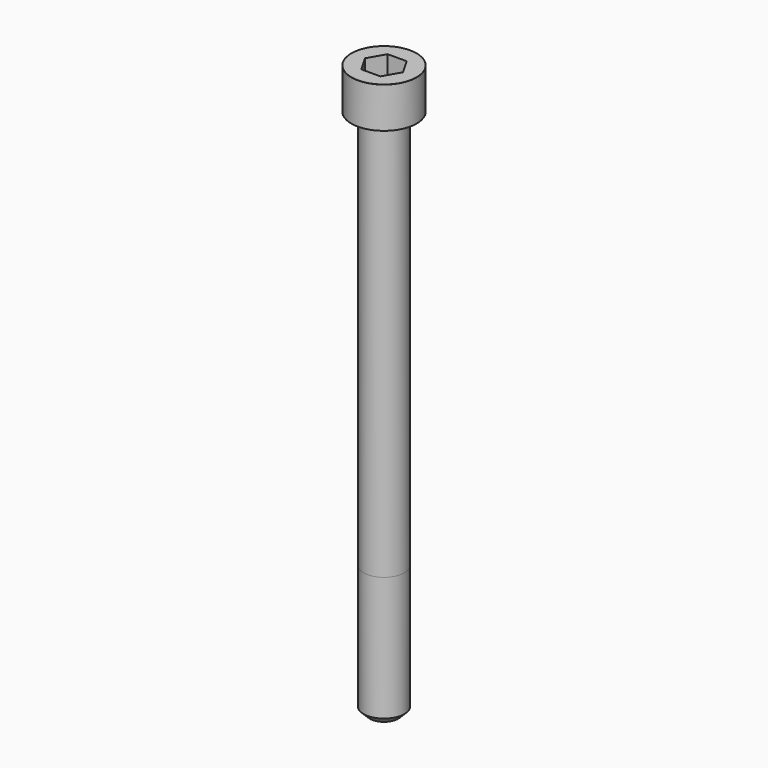
from build123d import *

# Parameters (mm, degrees)
POCKET_DEPTH = 8.07


with BuildPart() as part:
    # Sketch → Revolve (revolve)
    with BuildSketch(Plane.YZ):
        with BuildLine():
            Line((4.999, 0), (8, 0))
            Line((8, 0), (8, 9.97229))
            ThreePointArc((8, 9.97229), (7.991884, 9.991884), (7.97229, 10))
            Line((7.97229, 10), (0, 10))
            Line((0, -130), (0, 10))
            Line((3.5, -130), (0, -130))
            Line((5, -128.5), (3.5, -130))
            Line((5, -98), (5, -128.5))
            Line((4.999, 0), (5, -98))
        make_face()
    revolve(axis=Axis((0, 0, 0), (0, 0, 1)))

    # Sketch001 → Pocket (cut)
    with BuildSketch(Plane.XY.offset(10)):
        Polygon((4.659217, 0), (2.329608, 4.035), (-2.329608, 4.035), (-4.659217, 0), (-2.329608, -4.035), (2.329608, -4.035), align=None)
    extrude(amount=-POCKET_DEPTH, mode=Mode.SUBTRACT)


solid = part.part
